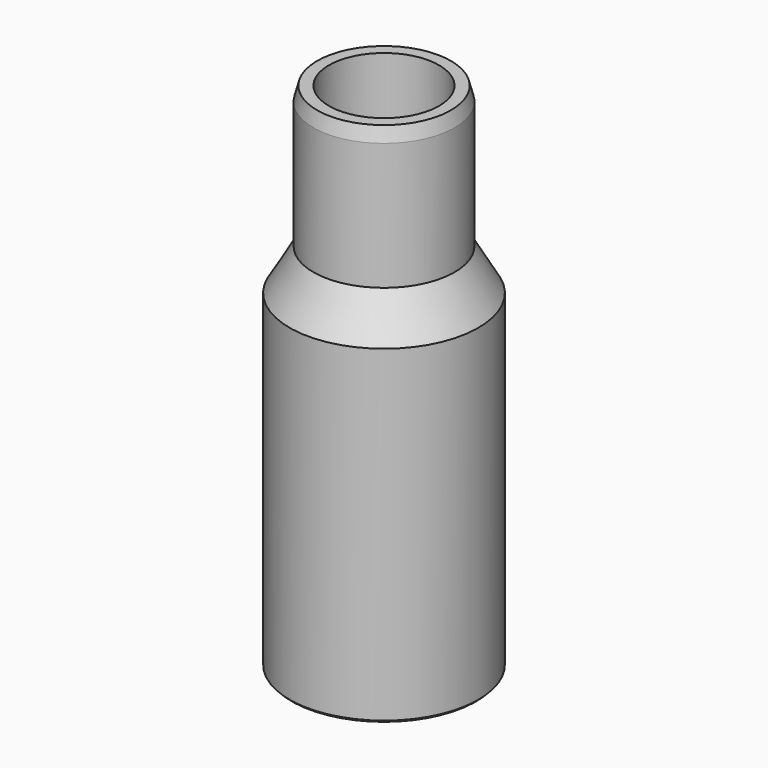
from build123d import *

# Parameters (mm, degrees)
CHAMFER_ANGLE   = 15
CHAMFER_SIZE    = 3
CHAMFER001_SIZE = 0.5


with BuildPart() as part:
    # Sketch010 → Revolution (revolve)
    with BuildSketch(Plane.YZ):
        Polygon((18.25, -70), (20.05, -70), (20.05, 0), (15, 8.746857), (15, 38.746857), (11.7, 38.746857), (11.7, 8.746857), (16.75, 0), align=None)
    revolve(axis=Axis((0, 0, 0), (0, 0, 1)))

    # Chamfer
    chamfer_edges = [part.edges().sort_by_distance(p)[0] for p in [
        (0, -15, 38.746857),
    ]]
    chamfer_side = part.faces().sort_by_distance((0, -15, 23.746857))[0]
    chamfer(chamfer_edges, length=CHAMFER_SIZE, angle=CHAMFER_ANGLE, reference=chamfer_side)

    # Chamfer001
    chamfer001_edges = [part.edges().sort_by_distance(p)[0] for p in [
        (0, -18.25, -70),
        (0, -20.05, -70),
    ]]
    chamfer(chamfer001_edges, length=CHAMFER001_SIZE)


with BuildPart() as part_1:
    # Body002 placement: moved
    add(part.part.moved(Location((0, 0, -35))))


solid = part_1.part
